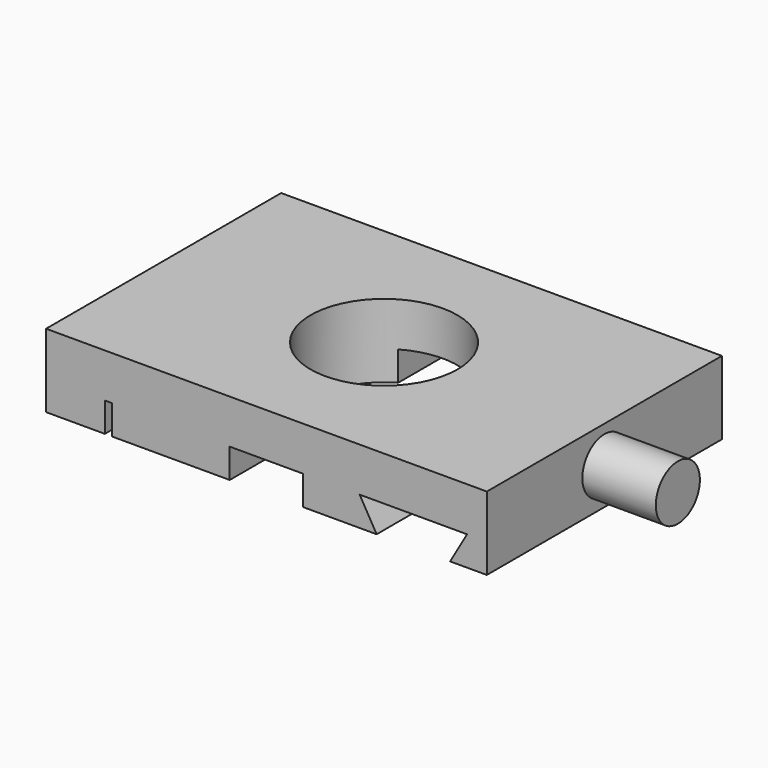
from build123d import *

# Parameters (mm, degrees)
F0_W     = 76.2
F0_H     = 50.8
F0_R     = 12.7
F1_DEPTH = 12.7
F2_W     = 1.27
F2_H     = 50.8
F3_DEPTH = 5.08
F5_DEPTH = 50.801
F6_R     = 4.7625
F7_DEPTH = 12.7


with BuildPart() as f1:
    # F0 (on Top) → F1 (new body)
    with BuildSketch(Plane.XY):
        Rectangle(F0_W, F0_H)
        Circle(F0_R, mode=Mode.SUBTRACT)
    extrude(amount=F1_DEPTH)

    # F2 (on face) → F3 (cut)
    with BuildSketch(Plane(origin=(0, 0, 0), x_dir=(1, 0, 0), z_dir=(0, 0, -1))):
        with Locations((-27.305, 0)):
            Rectangle(F2_W, F2_H)
        with BuildLine():
            Line((6.35, 25.4), (-6.35, 25.4))
            Line((-6.35, 25.4), (-6.35, 10.9985226281))
            ThreePointArc((-6.35, 10.9985226281), (0, 12.7), (6.35, 10.9985226281))
            Line((6.35, 10.9985226281), (6.35, 25.4))
        make_face()
        with BuildLine():
            Line((-6.35, -10.9985226281), (-6.35, -25.4))
            Line((-6.35, -25.4), (6.35, -25.4))
            Line((6.35, -25.4), (6.35, -10.9985226281))
            ThreePointArc((6.35, -10.9985226281), (0, -12.7), (-6.35, -10.9985226281))
        make_face()
    extrude(amount=-F3_DEPTH, mode=Mode.SUBTRACT)

    # F4 (on face) → F5 (cut, through all)
    with BuildSketch(Plane(origin=(0, 25.4, 0), x_dir=(-1, 0, 0), z_dir=(0, 1, 0))):
        Polygon((-31.75, 0), (-19.05, 0), (-16.1170606325, 5.08), (-34.6829393675, 5.08), align=None)
    extrude(amount=-F5_DEPTH, mode=Mode.SUBTRACT)

    # F6 (on face) → F7 (join)
    with BuildSketch(Plane.YZ.offset(38.1)):
        with Locations((0, 6.35)):
            Circle(F6_R)
    extrude(amount=F7_DEPTH)


solid = f1.part
